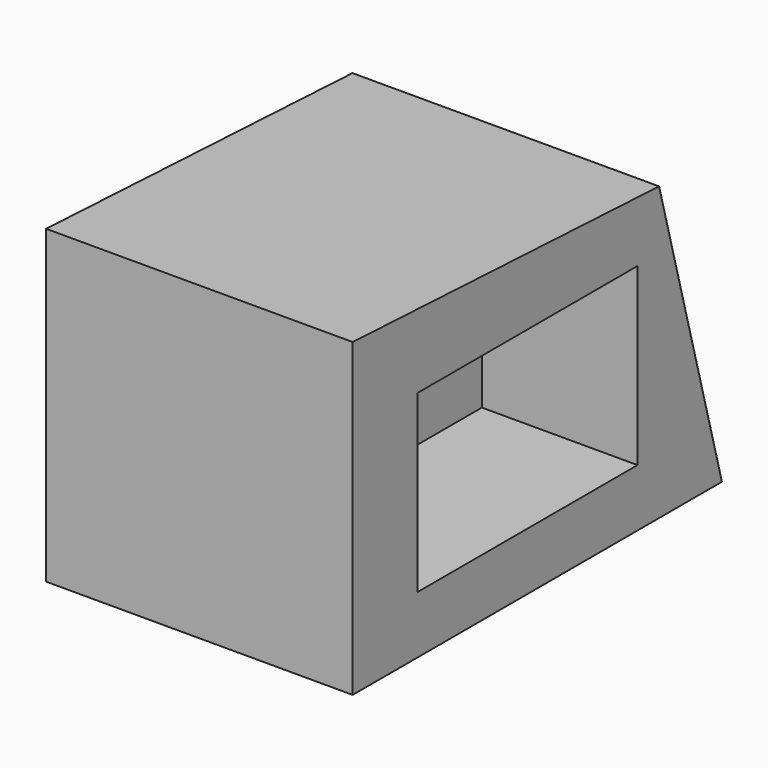
from build123d import *

# Parameters (mm, degrees)
F1_DEPTH = 50.038
F3_W     = 44.874294
F3_H     = 28.605775
F4_DEPTH = 25.4


with BuildPart() as f1:
    # F0 (on Right) → F1 (new body)
    with BuildSketch(Plane.YZ):
        Polygon((-80.399789, 0), (-5.07506, 0), (-17.896298, 47.656219), (-80.399789, 50.697614), align=None)
    extrude(amount=F1_DEPTH)

    # F3 (on face) → F4 (cut)
    with BuildSketch(Plane.YZ.offset(50.038)):
        with Locations((-44.732259, 23.702547)):
            Rectangle(F3_W, F3_H)
    extrude(amount=-F4_DEPTH, mode=Mode.SUBTRACT)


solid = f1.part
